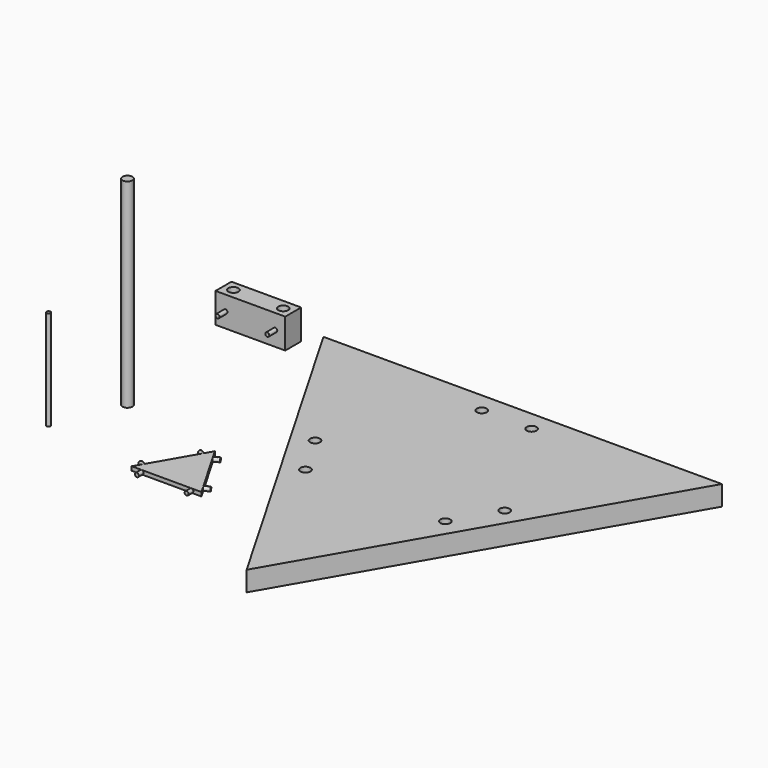
from build123d import *

# Parameters (mm, degrees)
F0_R      = 2.5
F1_DEPTH  = 100
F0_W      = 35
F0_H      = 10
F2_DEPTH  = 15
F3_R      = 1
F4_DEPTH  = 5
F5_DEPTH  = 10
F6_DEPTH  = 5
F7_R      = 1
F8_DEPTH  = 50
F9_DEPTH  = 2
F11_DEPTH = 3
F13_COUNT = 3


with BuildPart() as f1:
    # F0 (on Top) → F1 (new body)
    with BuildSketch(Plane.XY):
        with Locations((-53.7161678076, -28.9633926004)):
            Circle(F0_R)
    extrude(amount=F1_DEPTH)


with BuildPart() as f2:
    # F0 (on Top) → F2 (new body)
    with BuildSketch(Plane.XY):
        with Locations((-51.7187061906, 50.6360839307)):
            Rectangle(F0_W, F0_H)
        with Locations((-64.2187061906, 50.6360839307)):
            Circle(F0_R, mode=Mode.SUBTRACT)
        with Locations((-39.2187061906, 50.6360839307)):
            Circle(F0_R, mode=Mode.SUBTRACT)
    extrude(amount=F2_DEPTH)

    # F3 (on face) → F4 (join)
    with BuildSketch(Plane.XZ.offset(-45.6360839307)):
        with Locations((-64.2187061906, 7.5)):
            Circle(F3_R)
        with Locations((-39.2187061906, 7.5)):
            Circle(F3_R)
    extrude(amount=F4_DEPTH)


with BuildPart() as f5:
    # F0 (on Top) → F5 (new body)
    with BuildSketch(Plane.XY):
        Polygon((82.1795048314, -124.0850920262), (182.1795048314, 49.1199887307), (-17.8204951686, 49.1199887307), align=None)
        with Locations((47.0897588693, -43.3078691951)):
            Circle(F0_R, mode=Mode.SUBTRACT)
        with Locations((117.2692507936, -43.3078691951)):
            Circle(F0_R, mode=Mode.SUBTRACT)
        with Locations((34.5897588693, -21.6572341004)):
            Circle(F0_R, mode=Mode.SUBTRACT)
        with Locations((129.7692507936, -21.6572341004)):
            Circle(F0_R, mode=Mode.SUBTRACT)
        with Locations((69.6795048314, 39.1199887307)):
            Circle(F0_R, mode=Mode.SUBTRACT)
        with Locations((94.6795048314, 39.1199887307)):
            Circle(F0_R, mode=Mode.SUBTRACT)
    extrude(amount=F5_DEPTH)

    # F0 (on Top) → F6 (join)
    with BuildSketch(Plane.XY):
        with Locations((94.6795048314, 39.1199887307)):
            Circle(F0_R)
        with Locations((69.6795048314, 39.1199887307)):
            Circle(F0_R)
        with Locations((129.7692507936, -21.6572341004)):
            Circle(F0_R)
        with Locations((117.2692507936, -43.3078691951)):
            Circle(F0_R)
        with Locations((47.0897588693, -43.3078691951)):
            Circle(F0_R)
        with Locations((34.5897588693, -21.6572341004)):
            Circle(F0_R)
    extrude(amount=F6_DEPTH)


with BuildPart() as f8:
    # F7 (on Top) → F8 (new body)
    with BuildSketch(Plane.XY):
        with Locations((-66.9048428535, -61.9534403086)):
            Circle(F7_R)
    extrude(amount=F8_DEPTH)


with BuildPart() as f9:
    # F7 (on Top) → F9 (new body)
    with BuildSketch(Plane.XY):
        Polygon((-17.5, -71.6106578587), (17.5, -71.6106578587), (0, -41.2997687263), align=None)
    extrude(amount=F9_DEPTH)

    # F10 (on face) → F11 (join)
    with BuildSketch(Plane.XZ.offset(71.6106578587)):
        with BuildLine():
            ThreePointArc((-12.5, 0), (-11.7928932188, 0.2928932188), (-11.5, 1))
            ThreePointArc((-11.5, 1), (-11.7928932147, 1.7071067771), (-12.4999999883, 2))
            ThreePointArc((-12.4999999883, 2), (-13.5, 1.0000000058), (-12.5, 0))
        make_face()
        with BuildLine():
            ThreePointArc((13.5, 1), (13.2071067812, 1.7071067812), (12.5, 2))
            ThreePointArc((12.5, 2), (11.5, 1.0000000064), (12.4999999871, 0))
            ThreePointArc((12.4999999871, 0), (13.2071067766, 0.2928932143), (13.5, 1))
        make_face()
    extrude(amount=F11_DEPTH)

    # F13: F9 ×3 about axis
    f13_axis = Axis((0, -61.5070281479, 1.7078060191), (0, 0, 1))


with BuildPart() as f9_1:
    add(f9.part)
    for i in range(1, F13_COUNT):
        add(f9.part.rotate(f13_axis, i * 360 / F13_COUNT))


solid = Compound([f1.part, f2.part, f5.part, f8.part, f9_1.part])
